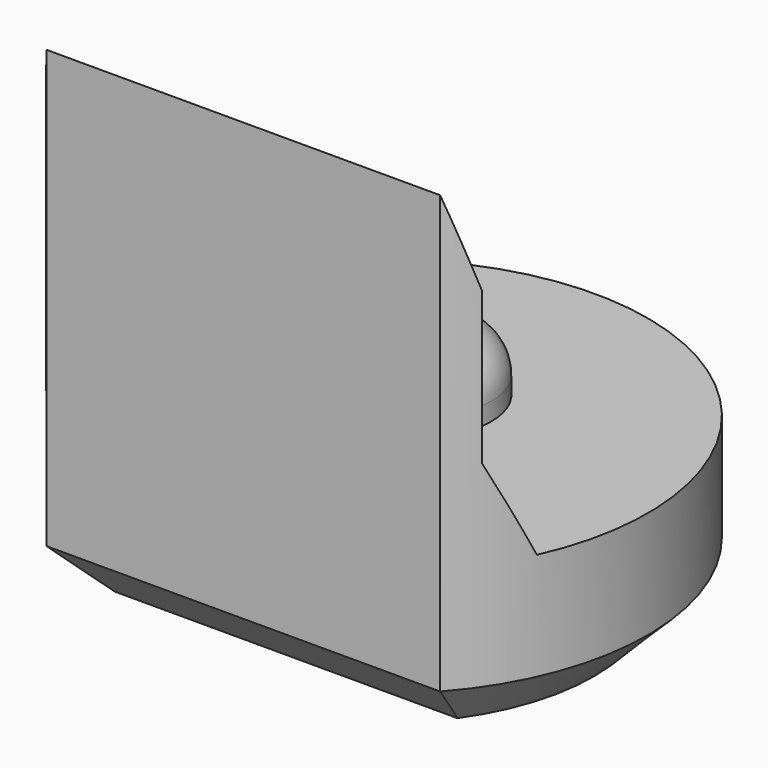
from build123d import *

# Parameters (mm, degrees)
PAD003_DEPTH         = 5.5
POCKET004_DEPTH      = 2.951
POCKET004_DEPTH_BACK = 2.951
SKETCH013_R          = 0.8
PAD006_DEPTH         = 0.7
FILLET_R             = 0.5
CHAMFER004_SIZE      = 0.6


with BuildPart() as part:
    # Sketch004 → Pad003 (new body)
    with BuildSketch(Plane.XY):
        with BuildLine():
            ThreePointArc((2.2, -1.9653244007), (0, 2.95), (-2.2, -1.9653244007))
            Line((-2.2, -1.9653244007), (2.2, -1.9653244007))
        make_face()
    extrude(amount=PAD003_DEPTH)

    # Sketch014 → Pocket004 (cut, two sides)
    with BuildSketch(Plane.YZ) as pocket004_sk:
        Polygon((-1.97, 5.5), (-1.67, 4.5), (-1.67, 2.8), (-1.22, 1.8), (4, 1.8), (4, 5.5), align=None)
    extrude(amount=-POCKET004_DEPTH, mode=Mode.SUBTRACT)
    extrude(pocket004_sk.sketch, amount=POCKET004_DEPTH_BACK, mode=Mode.SUBTRACT)

    # Sketch013 (on Face7 of Pocket004) → Pad006 (join)
    with BuildSketch(Plane.XY.offset(1.8)):
        with Locations((0, 0.5)):
            Circle(SKETCH013_R)
    extrude(amount=PAD006_DEPTH)

    # Fillet
    fillet_edges = [part.edges().sort_by_distance(p)[0] for p in [
        (-0.8, 0.5, 2.5),
    ]]
    fillet(fillet_edges, radius=FILLET_R)

    # Chamfer004
    chamfer004_edges = [part.edges().sort_by_distance(p)[0] for p in [
        (0, 2.95, 0),
        (0, -1.965324, 0),
    ]]
    chamfer(chamfer004_edges, length=CHAMFER004_SIZE)


with BuildPart() as part_1:
    # Body029 placement: moved
    add(part.part.moved(Location((0, 60, 0))))


solid = part_1.part
